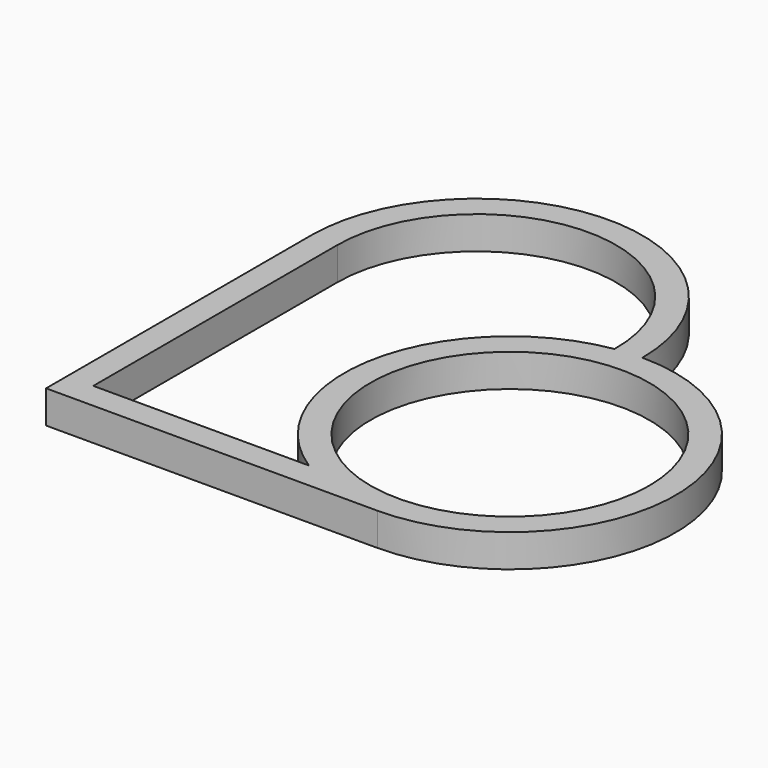
from build123d import *

# Parameters (mm, degrees)
SKETCH_R  = 42.5
PAD_DEPTH = 10


with BuildPart() as part:
    # Sketch → Pad (new body)
    with BuildSketch(Plane.XY):
        with BuildLine():
            Line((-101, 0), (-101, -101))
            Line((-101, -101), (0, -101))
            ThreePointArc((0, -101), (50.5, -50.5), (0, 0))
            ThreePointArc((0, 0), (-50.5, 50.5), (-101, 0))
        make_face()
        with Locations((0, -50.5)):
            Circle(SKETCH_R, mode=Mode.SUBTRACT)
        with BuildLine():
            ThreePointArc((-8.004796, -0.638459), (-49.435348, -40.185137), (-27.276363, -93))
            Line((-93, -93), (-27.276363, -93))
            Line((-93, 0), (-93, -93))
            ThreePointArc((-8.004796, -0.638459), (-50.180761, 42.498801), (-93, 0))
        make_face(mode=Mode.SUBTRACT)
    extrude(amount=PAD_DEPTH)


solid = part.part
